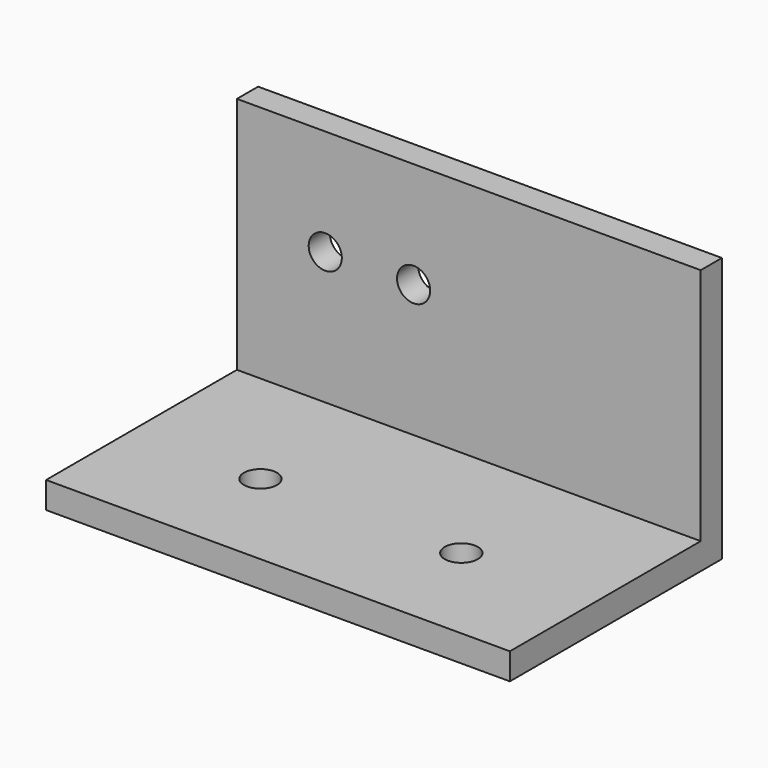
from build123d import *

# Parameters (mm, degrees)
F0_W     = 44.45
F0_H     = 25.4
F1_DEPTH = 25.4
F2_T     = -2.54
F4_D     = 3.175
F6_D     = 3.175


with BuildPart() as f1:
    # F0 (on Top) → F1 (new body)
    with BuildSketch(Plane.XY):
        with Locations((-22.225, -22.980119)):
            Rectangle(F0_W, F0_H)
    extrude(amount=F1_DEPTH)

    # F2
    f2_openings = [f1.faces().sort_by_distance(p)[0] for p in [
        (-22.225, -22.980119, 25.4),
        (0, -22.980119, 12.7),
        (-22.225, -35.680119, 12.7),
        (-44.45, -22.980119, 12.7),
    ]]
    offset(amount=F2_T, openings=f2_openings)

    # F4 (through all)
    with Locations(Plane.XZ.offset(12.820119)):
        with Locations((-35.983333, 15.24), (-27.516667, 15.24)):
            Hole(F4_D / 2)

    # F6 (through all)
    with Locations(Plane(origin=(0, 0, 0), x_dir=(1, 0, 0), z_dir=(0, 0, -1))):
        with Locations((-12.786061, 25.520119), (-32.031571, 25.520119)):
            Hole(F6_D / 2)


solid = f1.part
